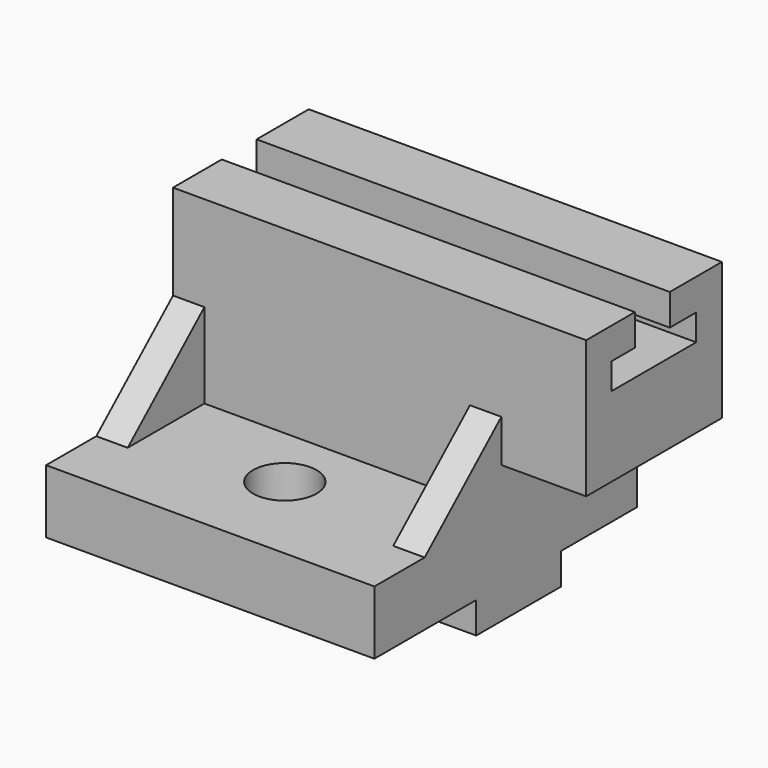
from build123d import *

# Parameters (mm, degrees)
F1_DEPTH  = 19.05
F3_DEPTH  = 98.298
F4_W      = 123.698
F4_H      = 50.8
F5_DEPTH  = 53.848
F6_W      = 9.398
F6_H      = 28.702
F7_DEPTH  = 25.4
F9_DEPTH  = 25.4
F10_W     = 9.398
F10_H     = 28.702
F11_DEPTH = 25.4
F13_DEPTH = 25.4
F14_R     = 9.525
F15_DEPTH = 25.4
F17_DEPTH = 227.838
F18_DEPTH = 12.7
F19_W     = 25.4
F19_H     = 50.8
F20_DEPTH = 12.7


with BuildPart() as f1:
    # F0 (on Top) → F1 (new body)
    with BuildSketch(Plane.XY):
        Polygon((51.7012895381, 79.502), (-46.5967104619, 79.502), (-46.5967104619, 30.353), (-46.5967104619, -1.397), (-46.5967104619, -18.796), (51.7012895381, -18.796), align=None)
    extrude(amount=F1_DEPTH)

    # F2 (on face) → F3 (join)
    with BuildSketch(Plane.YZ.offset(51.7012895381)):
        Polygon((51.0154031217, -9.3830144033), (51.054, 0), (19.304, 0), (19.304, -9.3830144033), align=None)
    extrude(amount=-F3_DEPTH)

    # F4 (on face) → F5 (join)
    with BuildSketch(Plane.XY.offset(19.05)):
        with Locations((15.2522895381, 54.102)):
            Rectangle(F4_W, F4_H)
    extrude(amount=F5_DEPTH)

    # F6 (on face) → F7 (join)
    with BuildSketch(Plane.XY.offset(19.05)):
        with Locations((47.0022895381, 14.351)):
            Rectangle(F6_W, F6_H)
    extrude(amount=F7_DEPTH)

    # F8 (on face) → F9 (cut)
    with BuildSketch(Plane.YZ.offset(51.7012895381)):
        Polygon((0, 44.45), (0, 19.05), (28.702, 44.45), align=None)
    extrude(amount=-F9_DEPTH, mode=Mode.SUBTRACT)

    # F10 (on face) → F11 (join)
    with BuildSketch(Plane.XY.offset(19.05)):
        with Locations((-41.8977104619, 14.351)):
            Rectangle(F10_W, F10_H)
    extrude(amount=F11_DEPTH)

    # F12 (on face) → F13 (cut)
    with BuildSketch(Plane(origin=(-46.5967104619, 0, 0), x_dir=(0, -1, 0), z_dir=(-1, 0, 0))):
        Polygon((-28.702, 44.45), (0, 19.05), (0, 44.45), align=None)
    extrude(amount=-F13_DEPTH, mode=Mode.SUBTRACT)

    # F14 (on face) → F15 (cut)
    with BuildSketch(Plane.XY.offset(19.05)):
        with Locations((2.2580989171, 9.4833038747)):
            Circle(F14_R)
    extrude(amount=-F15_DEPTH, mode=Mode.SUBTRACT)

    # F16 (on face) → F17 (cut)
    with BuildSketch(Plane.YZ.offset(77.1012895381)):
        Polygon((59.9918551743, 72.898), (46.9584316015, 72.898), (46.9584316015, 63.5), (38.106456399, 63.5), (38.106456399, 55.626), (69.856456399, 55.626), (69.856456399, 63.5), (59.9918551743, 63.5), align=None)
    extrude(amount=-F17_DEPTH, mode=Mode.SUBTRACT)

    # F18 (add): a face of the model
    f18_faces = [f1.faces().sort_by_distance(p)[0] for p in [
        (64.4012895381, 54.102, 19.05),
    ]]
    extrude(f18_faces, amount=-F18_DEPTH)

    # F19 (on face) → F20 (cut)
    with BuildSketch(Plane(origin=(0, 0, 19.05), x_dir=(1, 0, 0), z_dir=(0, 0, -1))):
        with Locations((64.4012895381, -54.102)):
            Rectangle(F19_W, F19_H)
    extrude(amount=-F20_DEPTH, mode=Mode.SUBTRACT)


solid = f1.part
